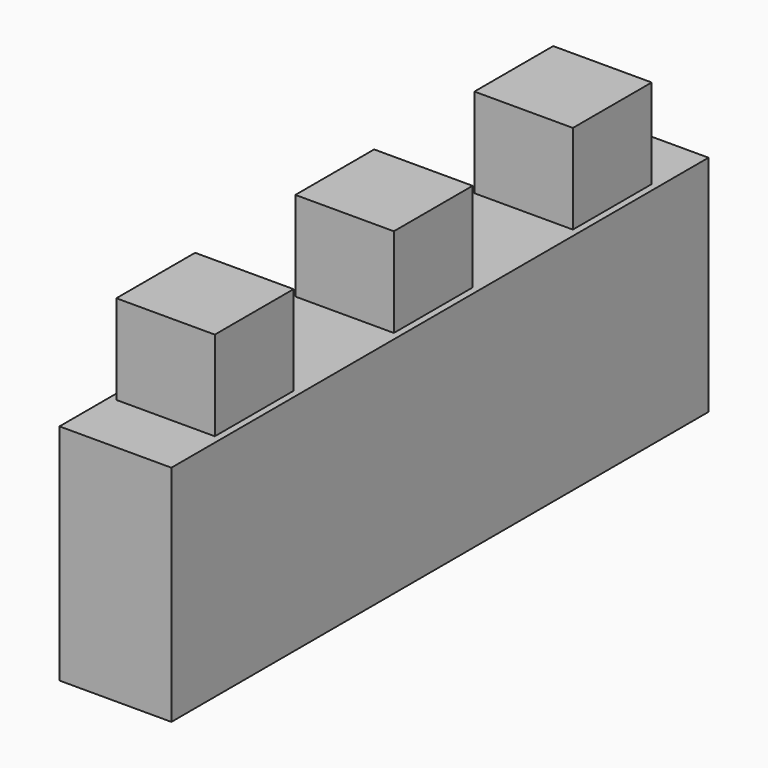
from build123d import *

# Parameters (mm, degrees)
BOX_W             = 10
BOX_H             = 10
BOX_DEPTH         = 10
SKETCH_W          = 4.4
SKETCH_H          = 4.4
PAD_DEPTH         = 4
PAD_FACE1_W       = 10
PAD_FACE1_H       = 10
POCKET_DEPTH      = 2.5
POCKET_FACE3_W    = 10
POCKET_FACE3_H    = 10
POCKET001_DEPTH   = 2.5
POCKET001_FACE6_W = 5
POCKET001_FACE6_H = 10
PAD001_DEPTH      = 10
SKETCH001_W       = 4.4
SKETCH001_H       = 4.4
PAD002_DEPTH      = 4
PAD002_FACE14_W   = 5
PAD002_FACE14_H   = 10
PAD003_DEPTH      = 10
SKETCH002_W       = 4.4
SKETCH002_H       = 4.4
PAD004_DEPTH      = 4


with BuildPart() as part:
    # Box → Box (new body)
    with BuildSketch(Plane.XY):
        with Locations((5, 5)):
            Rectangle(BOX_W, BOX_H)
    extrude(amount=BOX_DEPTH)

    # Sketch (on Face6 of BaseFeature) → Pad (new body)
    with BuildSketch(Plane.XY.offset(10)):
        with Locations((5, 5)):
            Rectangle(SKETCH_W, SKETCH_H)
    extrude(amount=PAD_DEPTH)

    # Pad Face1 → Pocket (cut)
    with BuildSketch(Plane(origin=(0, 5, 5), x_dir=(0, 1, 0), z_dir=(-1, 0, 0))):
        Rectangle(PAD_FACE1_W, PAD_FACE1_H)
    extrude(amount=-POCKET_DEPTH, mode=Mode.SUBTRACT)

    # Pocket Face3 → Pocket001 (cut)
    with BuildSketch(Plane(origin=(10, 5, 5), x_dir=(0, -1, 0), z_dir=(1, 0, 0))):
        Rectangle(POCKET_FACE3_W, POCKET_FACE3_H)
    extrude(amount=-POCKET001_DEPTH, mode=Mode.SUBTRACT)

    # Pocket001 Face6 → Pad001 (add)
    with BuildSketch(Plane(origin=(5, 10, 5), x_dir=(1, 0, 0), z_dir=(0, 1, 0))):
        Rectangle(POCKET001_FACE6_W, POCKET001_FACE6_H)
    extrude(amount=PAD001_DEPTH)

    # Sketch001 (on Face8 of Pad001) → Pad002 (join)
    with BuildSketch(Plane.XY.offset(10)):
        with Locations((5, 15)):
            Rectangle(SKETCH001_W, SKETCH001_H)
    extrude(amount=PAD002_DEPTH)

    # Pad002 Face14 → Pad003 (add)
    with BuildSketch(Plane(origin=(5, 20, 5), x_dir=(1, 0, 0), z_dir=(0, 1, 0))):
        Rectangle(PAD002_FACE14_W, PAD002_FACE14_H)
    extrude(amount=PAD003_DEPTH)

    # Sketch002 (on Face16 of Pad003) → Pad004 (join)
    with BuildSketch(Plane.XY.offset(10)):
        with Locations((5, 25)):
            Rectangle(SKETCH002_W, SKETCH002_H)
    extrude(amount=PAD004_DEPTH)


solid = part.part
